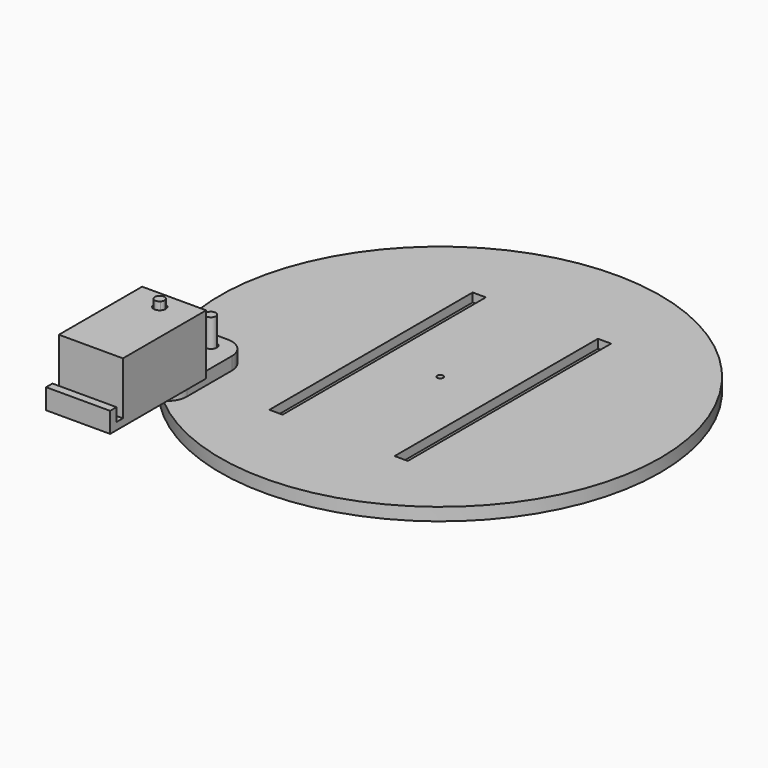
from build123d import *

# Parameters (mm, degrees)
F0_R      = 55
F0_R_2    = 1.5
F0_W      = 3.3
F0_H      = 63.5
F0_R_3    = 0.75
F1_DEPTH  = 3.2
F2_DEPTH  = 1
F3_R      = 1.2
F4_DEPTH  = 10
F5_R      = 1.5
F6_DEPTH  = 3.2
F7_R      = 5
F9_DEPTH  = 20
F10_R     = 1.5
F11_DEPTH = 15
F13_DEPTH = 25


with BuildPart() as f1:
    # F0 (on Top) → F1 (new body)
    with BuildSketch(Plane.XY):
        with Locations((39.351791, 117.438398)):
            Circle(F0_R)
        with Locations((0, 95.013872)):
            Circle(F0_R_2, mode=Mode.SUBTRACT)
        with Locations((23.701791, 117.438398)):
            Rectangle(F0_W, F0_H, mode=Mode.SUBTRACT)
        with Locations((39.351791, 117.438398)):
            Circle(F0_R_3, mode=Mode.SUBTRACT)
        with Locations((55.001791, 117.438398)):
            Rectangle(F0_W, F0_H, mode=Mode.SUBTRACT)
    extrude(amount=F1_DEPTH)

    # F0 (on Top) → F2 (join)
    with BuildSketch(Plane.XY):
        with Locations((23.701791, 117.438398)):
            Rectangle(F0_W, F0_H)
        with Locations((55.001791, 117.438398)):
            Rectangle(F0_W, F0_H)
    extrude(amount=F2_DEPTH)


with BuildPart() as f4:
    # F3 (on face) → F4 (new body)
    with BuildSketch(Plane.XY.offset(3.2)):
        with Locations((0, 95.013872)):
            Circle(F3_R)
    extrude(amount=F4_DEPTH)


with BuildPart() as f6:
    # F5 (on face) → F6 (new body)
    with BuildSketch(Plane.XY.offset(3.2)):
        with BuildLine():
            ThreePointArc((-1.033206, 80.101393), (-3.629298, 83.121842), (-6, 86.322244))
            Line((-6, 86.322244), (-6, 75.013872))
            Line((-6, 75.013872), (4.349512, 75.013872))
            ThreePointArc((4.349512, 75.013872), (2.676497, 76.451537), (1.062476, 77.955131))
            ThreePointArc((1.062476, 77.955131), (-1.073231, 77.966033), (-1.033206, 80.101393))
        make_face()
        with BuildLine():
            Line((6, 99.013872), (-6, 99.013872))
            Line((-6, 99.013872), (-6, 86.322244))
            ThreePointArc((-6, 86.322244), (-3.629298, 83.121842), (-1.033206, 80.101393))
            ThreePointArc((-1.033206, 80.101393), (0.591688, 80.392342), (1.5, 79.013972))
            ThreePointArc((1.5, 79.013972), (1.386311, 78.441135), (1.062476, 77.955131))
            ThreePointArc((1.062476, 77.955131), (2.676497, 76.451537), (4.349512, 75.013872))
            Line((4.349512, 75.013872), (6, 75.013872))
            Line((6, 75.013872), (6, 99.013872))
        make_face()
        with Locations((0, 95.013872)):
            Circle(F5_R, mode=Mode.SUBTRACT)
    extrude(amount=F6_DEPTH)

    # F7
    f7_edges = [f6.edges().sort_by_distance(p)[0] for p in [
        (-6, 99.013872, 4.8),
        (6, 99.013872, 4.8),
        (6, 75.013872, 4.8),
        (-6, 75.013872, 4.8),
    ]]
    fillet(f7_edges, radius=F7_R)


with BuildPart() as f9:
    # F8 (on face) → F9 (new body)
    with BuildSketch(Plane.XY.offset(3.2)):
        with BuildLine():
            ThreePointArc((0.847086, 78.165155), (1.10785, 78.554765), (1.199431, 79.014555))
            ThreePointArc((1.199431, 79.014555), (0.471285, 80.117892), (-0.829491, 79.882246))
            ThreePointArc((-0.829491, 79.882246), (-0.000569, 79.014555), (0.847086, 78.165155))
        make_face()
        with BuildLine():
            ThreePointArc((0.847086, 78.165155), (-0.000569, 79.014555), (-0.829491, 79.882246))
            ThreePointArc((-0.829491, 79.882246), (-0.859166, 78.176217), (0.847086, 78.165155))
        make_face()
    extrude(amount=F9_DEPTH)


with BuildPart() as f11:
    # F10 (on face) → F11 (new body)
    with BuildSketch(Plane.XY.offset(6.4)):
        with BuildLine():
            Line((-6, 83.513972), (-8, 83.513972))
            Line((-8, 83.513972), (-8, 53.513972))
            Line((-8, 53.513972), (8, 53.513972))
            Line((8, 53.513972), (8, 83.513972))
            Line((8, 83.513972), (6, 83.513972))
            Line((6, 83.513972), (6, 80.013872))
            ThreePointArc((6, 80.013872), (4.535534, 76.478338), (1, 75.013872))
            Line((1, 75.013872), (-1, 75.013872))
            ThreePointArc((-1, 75.013872), (-4.535534, 76.478338), (-6, 80.013872))
            Line((-6, 80.013872), (-6, 83.513972))
        make_face()
        with BuildLine():
            Line((6, 83.513972), (-6, 83.513972))
            Line((-6, 83.513972), (-6, 80.013872))
            ThreePointArc((-6, 80.013872), (-4.535534, 76.478338), (-1, 75.013872))
            Line((-1, 75.013872), (1, 75.013872))
            ThreePointArc((1, 75.013872), (4.535534, 76.478338), (6, 80.013872))
            Line((6, 80.013872), (6, 83.513972))
        make_face()
        with Locations((0, 79.013972)):
            Circle(F10_R, mode=Mode.SUBTRACT)
    extrude(amount=F11_DEPTH)

    # F12 (on face) → F13 (cut)
    with BuildSketch(Plane.YZ.offset(8)):
        Polygon((57.513972, 21.4), (53.513972, 21.4), (53.513972, 11.47974), (55.513972, 11.47974), (55.513972, 8.205), (57.513972, 8.205), align=None)
    extrude(amount=-F13_DEPTH, mode=Mode.SUBTRACT)


solid = Compound([f1.part, f4.part, f6.part, f9.part, f11.part])
